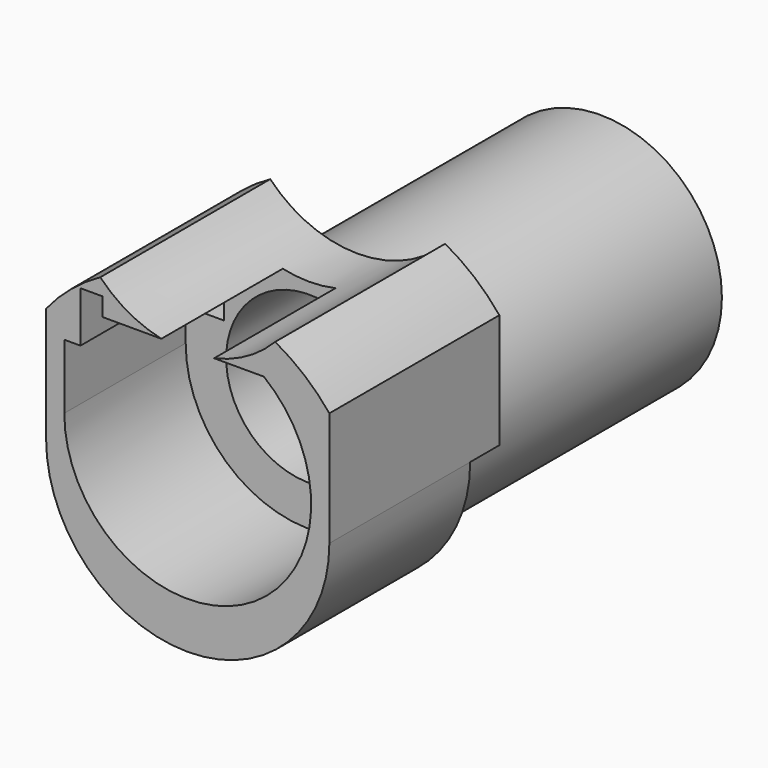
from build123d import *

# Parameters (mm, degrees)
F0_R     = 15.24
F0_R_2   = 10.414
F1_DEPTH = 26.67
F2_DEPTH = 38.1
F4_DEPTH = 26.67
F3_R     = 10.414
F5_DEPTH = 19.05
F7_DEPTH = 4.572


with BuildPart() as f1:
    # F0 (on Front) → F1 (new body)
    with BuildSketch(Plane.XZ):
        with BuildLine():
            Line((-17.78, 10.8124097937), (-17.78, -3.556))
            ThreePointArc((-17.78, -3.556), (0, -21.336), (17.78, -3.556))
            Line((17.78, -3.556), (17.78, 10.8124097937))
            ThreePointArc((17.78, 10.8124097937), (14.6565413174, 13.9872436172), (10.9767640135, 16.4961882046))
            ThreePointArc((10.9767640135, 16.4961882046), (0, 11.8282387054), (-10.9767640135, 16.4961882046))
            ThreePointArc((-10.9767640135, 16.4961882046), (-14.6565413174, 13.9872436172), (-17.78, 10.8124097937))
        make_face()
        with Locations((0, -3.556)):
            Circle(F0_R, mode=Mode.SUBTRACT)
        with Locations((0, -3.556)):
            Circle(F0_R)
        Circle(F0_R_2, mode=Mode.SUBTRACT)
    extrude(amount=F1_DEPTH)

    # F0 (on Front) → F2 (join)
    with BuildSketch(Plane.XZ):
        with Locations((0, -3.556)):
            Circle(F0_R)
        Circle(F0_R_2, mode=Mode.SUBTRACT)
    extrude(amount=-F2_DEPTH)

    # F3 (on face) → F4 (cut)
    with BuildSketch(Plane.XZ.offset(26.67)):
        Polygon((-13.462, 14.478), (-13.462, 8.128), (-13.462, 4.064), (-10.668, 4.064), (-10.668, 12.192), (-10.668, 14.478), align=None)
    extrude(amount=-F4_DEPTH, mode=Mode.SUBTRACT)

    # F3 (on face) → F5 (cut)
    with BuildSketch(Plane.XZ.offset(26.67)):
        with BuildLine():
            Line((-15.494, 8.128), (-15.494, 0))
            ThreePointArc((-15.494, 0), (6.7794053956, -13.9321103384), (9.5613373542, 12.192))
            Line((9.5613373542, 12.192), (3.3098522596, 12.192))
            ThreePointArc((3.3098522596, 12.192), (0, 11.8282387054), (-3.3098522596, 12.192))
            Line((-3.3098522596, 12.192), (-10.668, 12.192))
            Line((-10.668, 12.192), (-10.668, 4.064))
            Line((-10.668, 4.064), (-13.462, 4.064))
            Line((-13.462, 4.064), (-13.462, 8.128))
            Line((-13.462, 8.128), (-15.494, 8.128))
        make_face()
        Circle(F3_R, mode=Mode.SUBTRACT)
    extrude(amount=-F5_DEPTH, mode=Mode.SUBTRACT)

    # F6 (on face) → F7 (cut)
    with BuildSketch(Plane(origin=(0, 0, 0), x_dir=(-1, 0, 0), z_dir=(0, 1, 0))):
        with BuildLine():
            Line((-15.24, -3.556), (-17.78, -3.556))
            ThreePointArc((-17.78, -3.556), (0, -21.336), (17.78, -3.556))
            Line((17.78, -3.556), (15.24, -3.556))
            ThreePointArc((15.24, -3.556), (0, -18.796), (-15.24, -3.556))
        make_face()
    extrude(amount=-F7_DEPTH, mode=Mode.SUBTRACT)


solid = f1.part
